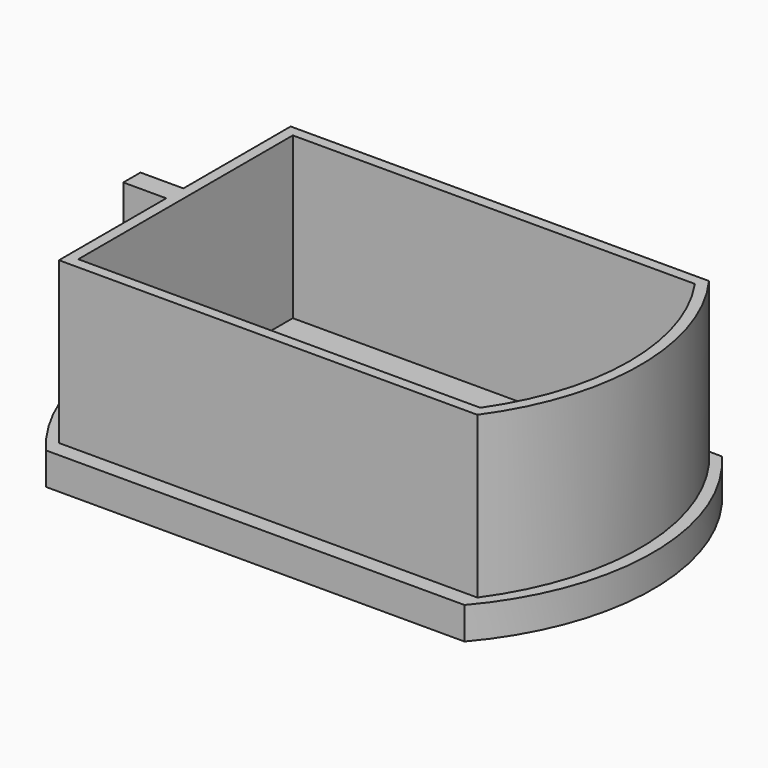
from build123d import *

# Parameters (mm, degrees)
F1_DEPTH = 3
F3_DEPTH = 15


with BuildPart() as f1:
    # F0 (on Top) → F1 (new body)
    with BuildSketch(Plane.XY):
        with BuildLine():
            ThreePointArc((26.425019, -15), (31.989424, 0), (26.425019, 15))
            Line((26.425019, 15), (-12.574981, 15))
            ThreePointArc((-12.574981, 15), (-18.139385, 0), (-12.574981, -15))
            Line((-12.574981, -15), (26.425019, -15))
        make_face()
        with BuildLine():
            Line((-12.574981, 1), (-12.574981, 13.5))
            Line((-12.574981, 13.5), (26.425019, 13.5))
            ThreePointArc((26.425019, 13.5), (30.803795, 0), (26.425019, -13.5))
            Line((26.425019, -13.5), (-12.574981, -13.5))
            Line((-12.574981, -13.5), (-12.574981, -1))
            Line((-12.574981, -1), (-16.574981, -1))
            Line((-16.574981, -1), (-16.574981, 1))
            Line((-16.574981, 1), (-12.574981, 1))
        make_face(mode=Mode.SUBTRACT)
        with BuildLine():
            Line((26.425019, 13.5), (-12.574981, 13.5))
            Line((-12.574981, 13.5), (-12.574981, 1))
            Line((-12.574981, 1), (-16.574981, 1))
            Line((-16.574981, 1), (-16.574981, -1))
            Line((-16.574981, -1), (-12.574981, -1))
            Line((-12.574981, -1), (-12.574981, -13.5))
            Line((-12.574981, -13.5), (26.425019, -13.5))
            ThreePointArc((26.425019, -13.5), (30.803795, 0), (26.425019, 13.5))
        make_face()
    extrude(amount=F1_DEPTH)

    # F2 (on face) → F3 (join)
    with BuildSketch(Plane.XY.offset(3)):
        with BuildLine():
            Line((26.425019, 13.5), (-12.574981, 13.5))
            Line((-12.574981, 13.5), (-12.574981, 1))
            Line((-12.574981, 1), (-16.574981, 1))
            Line((-16.574981, 1), (-16.574981, -1))
            Line((-16.574981, -1), (-12.574981, -1))
            Line((-12.574981, -1), (-12.574981, -13.5))
            Line((-12.574981, -13.5), (26.425019, -13.5))
            ThreePointArc((26.425019, -13.5), (30.803795, 0), (26.425019, 13.5))
        make_face()
        with BuildLine():
            Line((-11.574981, 0), (-11.574981, 12.5))
            Line((-11.574981, 12.5), (25.907662, 12.5))
            ThreePointArc((25.907662, 12.5), (29.803795, 0), (25.907662, -12.5))
            Line((25.907662, -12.5), (-11.574981, -12.5))
            Line((-11.574981, -12.5), (-11.574981, 0))
        make_face(mode=Mode.SUBTRACT)
    extrude(amount=F3_DEPTH)


solid = f1.part
